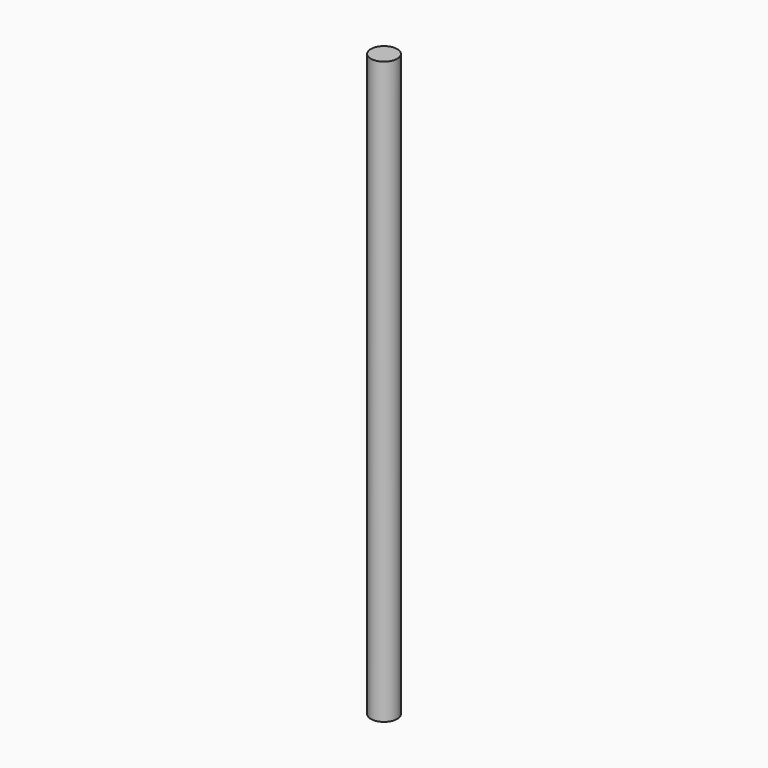
from build123d import *

# Parameters (mm, degrees)
SKETCH_R  = 6.925666
PAD_DEPTH = 304.8


with BuildPart() as part:
    # Sketch → Pad (new body)
    with BuildSketch(Plane.XY):
        Circle(SKETCH_R)
    extrude(amount=PAD_DEPTH)


solid = part.part
